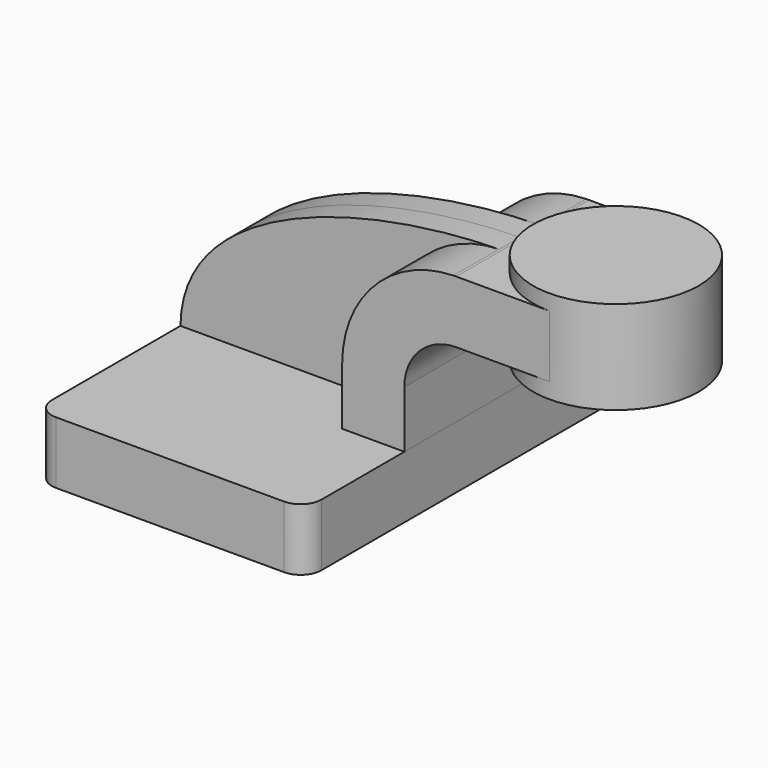
from build123d import *

# Parameters (mm, degrees)
F1_DEPTH = 63.5
F0_W     = 25.4
F0_H     = 19.05
F2_DEPTH = 25.4
F3_DEPTH = 7.9375
F5_R     = 6.35


with BuildPart() as f1:
    # F0 (on Front) → F1 (new body, symmetric)
    with BuildSketch(Plane.XZ):
        Polygon((22.225, 9.525), (-41.275, 9.525), (-41.275, -9.525), (41.275, -9.525), (41.275, 9.525), align=None)
    extrude(amount=F1_DEPTH, both=True)

    # F5
    f5_edges = [f1.edges().sort_by_distance(p)[0] for p in [
        (-41.275, -63.5, 0),
        (41.275, -63.5, 0),
        (-41.275, 63.5, 0),
        (41.275, 63.5, 0),
    ]]
    fillet(f5_edges, radius=F5_R)


with BuildPart() as f2:
    # F0 (on Front) → F2 (new body, symmetric)
    with BuildSketch(Plane.XZ):
        with BuildLine():
            Line((22.225, 27.0002), (22.225, 9.525))
            Line((22.225, 9.525), (41.275, 9.525))
            Line((41.275, 9.525), (41.275, 27.0002))
            ThreePointArc((41.275, 27.0002), (45.9246798487, 38.2255201513), (57.15, 42.8752))
            Line((57.15, 42.8752), (60.325, 42.8752))
            Line((60.325, 42.8752), (60.325, 61.9252))
            Line((60.325, 61.9252), (57.15, 61.9252))
            add(Edge.make_bspline(
                [(56.3168383269, 61.9152607421), (56.5951478112, 61.9192387594), (56.8728749827, 61.9225513366), (57.15, 61.9252)],
                knots=[110.7697111748, 110.7697111748, 110.7697111748, 110.7697111748, 111.5045361635, 111.5045361635, 111.5045361635, 111.5045361635], degree=3))
            ThreePointArc((56.3168383269, 61.9152607421), (32.1614646644, 51.399559147), (22.225, 27.0002))
        make_face()
        with Locations((73.025, 52.4002)):
            Rectangle(F0_W, F0_H)
    extrude(amount=F2_DEPTH, both=True)


with BuildPart() as f3:
    # F0 (on Front) → F3 (new body, symmetric)
    with BuildSketch(Plane.XZ):
        with BuildLine():
            add(Edge.make_bspline(
                [(-41.275, 9.525), (-40.8217216009, 45.5948519834), (14.3636363113, 61.315602548), (56.3168383269, 61.9152607421)],
                knots=[0, 0, 0, 0, 110.7697111748, 110.7697111748, 110.7697111748, 110.7697111748], degree=3))
            Line((-41.275, 9.525), (22.225, 9.525))
            Line((22.225, 9.525), (22.225, 27.0002))
            ThreePointArc((22.225, 27.0002), (32.1614646644, 51.399559147), (56.3168383269, 61.9152607421))
        make_face()
    extrude(amount=F3_DEPTH, both=True)


with BuildPart() as f4:
    # F0 (on Front) → F4 (revolve)
    with BuildSketch(Plane.XZ):
        Polygon((85.725, 66.675), (85.725, 61.9252), (85.725, 42.8752), (85.725, 38.1), (111.125, 38.1), (111.125, 66.675), align=None)
    revolve(axis=Axis((85.725, 0, 52.3875), (0, 0, 1)))


solid = Compound([f1.part, f2.part, f3.part, f4.part])
